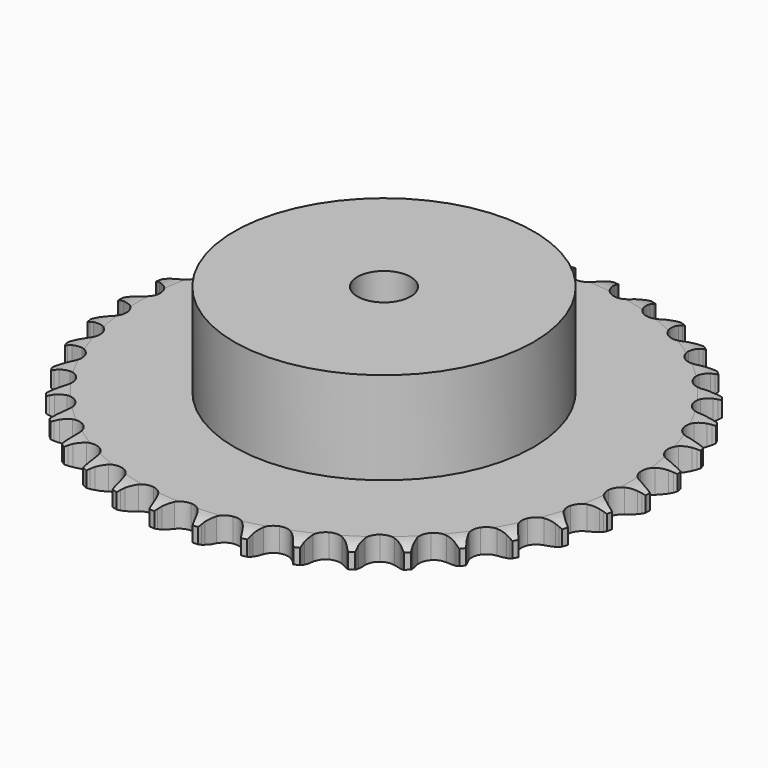
from build123d import *

# Parameters (mm, degrees)
PAD_DEPTH         = 7.2
SKETCH001_R       = 45
PAD001_DEPTH      = 35
SKETCH002_R       = 8
POCKET_DEPTH      = 0.001
POCKET_DEPTH_BACK = 35.001


with BuildPart() as part:
    # Sprocket → Pad (new body)
    with BuildSketch(Plane.XY):
        with BuildLine():
            ThreePointArc((-6.664627, 80.430092), (-5.93192, 79.411092), (-5.39606, 78.276157))
            Line((-5.39606, 78.276157), (-4.981042, 77.139156))
            ThreePointArc((-4.981042, 77.139156), (-4.324473, 75.677146), (-3.464601, 74.324677))
            ThreePointArc((-3.464601, 74.324677), (-1.939239, 73.041758), (0, 72.581366))
            ThreePointArc((0, 72.581366), (1.939239, 73.041758), (3.464601, 74.324677))
            ThreePointArc((3.464601, 74.324677), (4.324473, 75.677146), (4.981042, 77.139156))
            Line((4.981042, 77.139156), (5.39606, 78.276157))
            ThreePointArc((5.39606, 78.276157), (5.93192, 79.411092), (6.664627, 80.430092))
            ThreePointArc((6.664627, 80.430092), (7.21962, 79.30439), (7.561367, 78.096734))
            Line((7.561367, 78.096734), (7.78358, 76.906931))
            ThreePointArc((7.78358, 76.906931), (8.190556, 75.356794), (8.816092, 73.881239))
            ThreePointArc((8.816092, 73.881239), (10.109488, 72.364752), (11.9465, 71.591451))
            ThreePointArc((11.9465, 71.591451), (13.935068, 71.726376), (15.650788, 72.74073))
            Line((15.650788, 72.74073), (17.609795, 75.267226))
            ThreePointArc((17.609795, 75.267226), (17.893709, 75.801938), (18.206297, 76.32041))
            ThreePointArc((18.206297, 76.32041), (18.921652, 77.351666), (19.812089, 78.236169))
            ThreePointArc((19.812089, 78.236169), (20.174227, 77.034471), (20.31254, 75.787037))
            Line((20.31254, 75.787037), (20.335887, 74.576886))
            ThreePointArc((20.335887, 74.576886), (20.482168, 72.980904), (20.856304, 71.422515))
            ThreePointArc((20.856304, 71.422515), (21.882455, 69.713824), (23.567131, 68.648708))
            ThreePointArc((23.567131, 68.648708), (25.550786, 68.454485), (27.410062, 69.172607))
            Line((27.410062, 69.172607), (29.758199, 71.342202))
            ThreePointArc((29.758199, 71.342202), (30.126251, 71.822891), (30.519913, 72.282841))
            ThreePointArc((30.519913, 72.282841), (31.395252, 73.182288), (32.419128, 73.908167))
            ThreePointArc((32.419128, 73.908167), (32.578534, 72.663252), (32.50964, 71.410066))
            Line((32.50964, 71.410066), (32.333484, 70.212577))
            ThreePointArc((32.333484, 70.212577), (32.21508, 68.614286), (32.327611, 67.01557))
            ThreePointArc((32.327611, 67.01557), (33.058525, 65.161285), (34.544912, 63.833407))
            ThreePointArc((34.544912, 63.833407), (36.469544, 63.315334), (38.421661, 63.717635))
            Line((38.421661, 63.717635), (41.094876, 65.471149))
            ThreePointArc((41.094876, 65.471149), (41.537028, 65.884702), (42.001026, 66.273585))
            ThreePointArc((42.001026, 66.273585), (43.01247, 67.016689), (44.141858, 67.564143))
            ThreePointArc((44.141858, 67.564143), (44.094184, 66.30997), (43.819961, 65.085215))
            Line((43.819961, 65.085215), (43.449108, 63.933053))
            ThreePointArc((43.449108, 63.933053), (43.069248, 62.376048), (42.917105, 60.780615))
            ThreePointArc((42.917105, 60.780615), (43.332845, 58.831316), (44.580398, 57.276897))
            ThreePointArc((44.580398, 57.276897), (46.393508, 56.449105), (48.385218, 56.524611))
            Line((48.385218, 56.524611), (51.310593, 57.814214))
            ThreePointArc((51.310593, 57.814214), (51.814782, 58.149351), (52.33646, 58.456558))
            ThreePointArc((52.33646, 58.456558), (53.45642, 59.023049), (54.660513, 59.377145))
            ThreePointArc((54.660513, 59.377145), (54.407059, 58.147924), (53.934988, 56.985009))
            Line((53.934988, 56.985009), (53.379554, 55.909601))
            ThreePointArc((53.379554, 55.909601), (52.7486, 54.436355), (52.335932, 52.887723))
            ThreePointArc((52.335932, 52.887723), (52.425158, 50.896581), (53.399847, 49.158022))
            ThreePointArc((53.399847, 49.158022), (55.051979, 48.043093), (57.028952, 47.789744))
            Line((57.028952, 47.789744), (60.12669, 48.580257))
            ThreePointArc((60.12669, 48.580257), (60.679165, 48.827837), (61.244292, 49.044988))
            ThreePointArc((61.244292, 49.044988), (62.442219, 49.419413), (63.688171, 49.570493))
            ThreePointArc((63.688171, 49.570493), (63.235851, 48.399755), (62.57881, 47.3304))
            Line((62.57881, 47.3304), (61.853944, 46.361081))
            ThreePointArc((61.853944, 46.361081), (60.989107, 45.01178), (60.327171, 43.552192))
            ThreePointArc((60.327171, 43.552192), (60.087449, 41.573521), (60.762687, 39.698245))
            ThreePointArc((60.762687, 39.698245), (62.208775, 38.32659), (64.117085, 37.751298))
            Line((64.117085, 37.751298), (67.302688, 38.021158))
            ThreePointArc((67.302688, 38.021158), (67.888378, 38.174426), (68.48154, 38.295599))
            ThreePointArc((68.48154, 38.295599), (69.724757, 38.467746), (70.978583, 38.411688))
            ThreePointArc((70.978583, 38.411688), (70.339734, 37.331366), (69.515644, 36.384742))
            Line((69.515644, 36.384742), (68.64112, 35.547952))
            ThreePointArc((68.64112, 35.547952), (67.565991, 34.359401), (66.672842, 33.028671))
            ThreePointArc((66.672842, 33.028671), (66.110711, 31.116443), (66.468079, 29.155603))
            ThreePointArc((66.468079, 29.155603), (67.668677, 27.564637), (69.456271, 26.683094))
            Line((69.456271, 26.683094), (72.642844, 26.42494))
            ThreePointArc((72.642844, 26.42494), (73.245773, 26.479717), (73.850789, 26.501606))
            ThreePointArc((73.850789, 26.501606), (75.105385, 26.466778), (76.332883, 26.205112))
            ThreePointArc((76.332883, 26.205112), (75.524933, 25.244675), (74.556273, 24.446602))
            Line((74.556273, 24.446602), (73.555945, 23.765167))
            ThreePointArc((73.555945, 23.765167), (72.29985, 22.769787), (71.199852, 21.604214))
            ThreePointArc((71.199852, 21.604214), (70.330645, 19.81059), (70.360396, 17.817672))
            ThreePointArc((70.360396, 17.817672), (71.282755, 16.050793), (72.90087, 14.887045))
            Line((72.90087, 14.887045), (76.001492, 14.10792))
            ThreePointArc((76.001492, 14.10792), (76.605214, 14.06271), (77.205582, 13.984719))
            ThreePointArc((77.205582, 13.984719), (78.437334, 13.743866), (79.605022, 13.283729))
            ThreePointArc((79.605022, 13.283729), (78.650008, 12.469375), (77.563201, 11.841624))
            Line((77.563201, 11.841624), (76.464356, 11.334131))
            ThreePointArc((76.464356, 11.334131), (75.061558, 10.559072), (73.784716, 9.59045))
            ThreePointArc((73.784716, 9.59045), (72.632143, 7.964356), (72.333464, 5.993722))
            ThreePointArc((72.333464, 5.993722), (72.952425, 4.099125), (74.356925, 2.684916))
            Line((74.356925, 2.684916), (77.287018, 1.406071))
            ThreePointArc((77.287018, 1.406071), (77.875065, 1.262109), (78.454407, 1.086364))
            ThreePointArc((78.454407, 1.086364), (79.629716, 0.646056), (80.705743, 0))
            ThreePointArc((80.705743, 0), (79.629716, -0.646056), (78.454407, -1.086364))
            Line((78.454407, -1.086364), (77.287018, -1.406071))
            ThreePointArc((77.287018, -1.406071), (75.775783, -1.939666), (74.356925, -2.684916))
            ThreePointArc((74.356925, -2.684916), (72.952425, -4.099125), (72.333464, -5.993722))
            ThreePointArc((72.333464, -5.993722), (72.632143, -7.964356), (73.784716, -9.59045))
            Line((73.784716, -9.59045), (76.464356, -11.334131))
            ThreePointArc((76.464356, -11.334131), (77.020687, -11.572918), (77.563201, -11.841624))
            ThreePointArc((77.563201, -11.841624), (78.650008, -12.469375), (79.605022, -13.283729))
            ThreePointArc((79.605022, -13.283729), (78.437334, -13.743866), (77.205582, -13.984719))
            Line((77.205582, -13.984719), (76.001492, -14.10792))
            ThreePointArc((76.001492, -14.10792), (74.423041, -14.385496), (72.90087, -14.887045))
            ThreePointArc((72.90087, -14.887045), (71.282755, -16.050793), (70.360396, -17.817672))
            ThreePointArc((70.360396, -17.817672), (70.330645, -19.81059), (71.199852, -21.604214))
            Line((71.199852, -21.604214), (73.555945, -23.765167))
            ThreePointArc((73.555945, -23.765167), (74.065385, -24.092267), (74.556273, -24.446602))
            ThreePointArc((74.556273, -24.446602), (75.524933, -25.244675), (76.332883, -26.205112))
            ThreePointArc((76.332883, -26.205112), (75.105385, -26.466778), (73.850789, -26.501606))
            Line((73.850789, -26.501606), (72.642844, -26.42494))
            ThreePointArc((72.642844, -26.42494), (71.040233, -26.438926), (69.456271, -26.683094))
            ThreePointArc((69.456271, -26.683094), (67.668677, -27.564637), (66.468079, -29.155603))
            ThreePointArc((66.468079, -29.155603), (66.110711, -31.116443), (66.672842, -33.028671))
            Line((66.672842, -33.028671), (68.64112, -35.547952))
            ThreePointArc((68.64112, -35.547952), (69.089773, -35.954442), (69.515644, -36.384742))
            ThreePointArc((69.515644, -36.384742), (70.339734, -37.331366), (70.978583, -38.411688))
            ThreePointArc((70.978583, -38.411688), (69.724757, -38.467746), (68.48154, -38.295599))
            Line((68.48154, -38.295599), (67.302688, -38.021158))
            ThreePointArc((67.302688, -38.021158), (65.719633, -37.771172), (64.117085, -37.751298))
            ThreePointArc((64.117085, -37.751298), (62.208775, -38.32659), (60.762687, -39.698245))
            ThreePointArc((60.762687, -39.698245), (60.087449, -41.573521), (60.327171, -43.552192))
            Line((60.327171, -43.552192), (61.853944, -46.361081))
            ThreePointArc((61.853944, -46.361081), (62.229572, -46.835873), (62.57881, -47.3304))
            ThreePointArc((62.57881, -47.3304), (63.235851, -48.399755), (63.688171, -49.570493))
            ThreePointArc((63.688171, -49.570493), (62.442219, -49.419413), (61.244292, -49.044988))
            Line((61.244292, -49.044988), (60.12669, -48.580257))
            ThreePointArc((60.12669, -48.580257), (58.606372, -48.073118), (57.028952, -47.789744))
            ThreePointArc((57.028952, -47.789744), (55.051979, -48.043093), (53.399847, -49.158022))
            ThreePointArc((53.399847, -49.158022), (52.425158, -50.896581), (52.335932, -52.887723))
            Line((52.335932, -52.887723), (53.379554, -55.909601))
            ThreePointArc((53.379554, -55.909601), (53.67191, -56.439744), (53.934988, -56.985009))
            ThreePointArc((53.934988, -56.985009), (54.407059, -58.147924), (54.660513, -59.377145))
            ThreePointArc((54.660513, -59.377145), (53.45642, -59.023049), (52.33646, -58.456558))
            Line((52.33646, -58.456558), (51.310593, -57.814214))
            ThreePointArc((51.310593, -57.814214), (49.894483, -57.063755), (48.385218, -56.524611))
            ThreePointArc((48.385218, -56.524611), (46.393508, -56.449105), (44.580398, -57.276897))
            ThreePointArc((44.580398, -57.276897), (43.332845, -58.831316), (42.917105, -60.780615))
            Line((42.917105, -60.780615), (43.449108, -63.933053))
            ThreePointArc((43.449108, -63.933053), (43.650219, -64.504085), (43.819961, -65.085215))
            ThreePointArc((43.819961, -65.085215), (44.094184, -66.30997), (44.141858, -67.564143))
            ThreePointArc((44.141858, -67.564143), (43.01247, -67.016689), (42.001026, -66.273585))
            Line((42.001026, -66.273585), (41.094876, -65.471149))
            ThreePointArc((41.094876, -65.471149), (39.821601, -64.497842), (38.421661, -63.717635))
            ThreePointArc((38.421661, -63.717635), (36.469544, -63.315334), (34.544912, -63.833407))
            ThreePointArc((34.544912, -63.833407), (33.058525, -65.161285), (32.327611, -67.01557))
            Line((32.327611, -67.01557), (32.333484, -70.212577))
            ThreePointArc((32.333484, -70.212577), (32.437863, -70.808924), (32.50964, -71.410066))
            ThreePointArc((32.50964, -71.410066), (32.578534, -72.663252), (32.419128, -73.908167))
            ThreePointArc((32.419128, -73.908167), (31.395252, -73.182288), (30.519913, -72.282841))
            Line((30.519913, -72.282841), (29.758199, -71.342202))
            ThreePointArc((29.758199, -71.342202), (28.662491, -70.172596), (27.410062, -69.172607))
            ThreePointArc((27.410062, -69.172607), (25.550786, -68.454485), (23.567131, -68.648708))
            ThreePointArc((23.567131, -68.648708), (21.882455, -69.713824), (20.856304, -71.422515))
            Line((20.856304, -71.422515), (20.335887, -74.576886))
            ThreePointArc((20.335887, -74.576886), (20.340687, -75.182279), (20.31254, -75.787037))
            ThreePointArc((20.31254, -75.787037), (20.174227, -77.034471), (19.812089, -78.236169))
            ThreePointArc((19.812089, -78.236169), (18.921652, -77.351666), (18.206297, -76.32041))
            Line((18.206297, -76.32041), (17.609795, -75.267226))
            ThreePointArc((17.609795, -75.267226), (16.721542, -73.933224), (15.650788, -72.74073))
            ThreePointArc((15.650788, -72.74073), (13.935068, -71.726376), (11.9465, -71.591451))
            ThreePointArc((11.9465, -71.591451), (10.109488, -72.364752), (8.816092, -73.881239))
            Line((8.816092, -73.881239), (7.78358, -76.906931))
            ThreePointArc((7.78358, -76.906931), (7.688671, -77.504858), (7.561367, -78.096734))
            ThreePointArc((7.561367, -78.096734), (7.21962, -79.30439), (6.664627, -80.430092))
            ThreePointArc((6.664627, -80.430092), (5.93192, -79.411092), (5.39606, -78.276157))
            Line((5.39606, -78.276157), (4.981042, -77.139156))
            ThreePointArc((4.981042, -77.139156), (4.324473, -75.677146), (3.464601, -74.324677))
            ThreePointArc((3.464601, -74.324677), (1.939239, -73.041758), (0, -72.581366))
            ThreePointArc((0, -72.581366), (-1.939239, -73.041758), (-3.464601, -74.324677))
            Line((-3.464601, -74.324677), (-4.981042, -77.139156))
            ThreePointArc((-4.981042, -77.139156), (-5.173073, -77.713306), (-5.39606, -78.276157))
            ThreePointArc((-5.39606, -78.276157), (-5.93192, -79.411092), (-6.664627, -80.430092))
            ThreePointArc((-6.664627, -80.430092), (-7.21962, -79.30439), (-7.561367, -78.096734))
            Line((-7.561367, -78.096734), (-7.78358, -76.906931))
            ThreePointArc((-7.78358, -76.906931), (-8.190556, -75.356794), (-8.816092, -73.881239))
            ThreePointArc((-8.816092, -73.881239), (-10.109488, -72.364752), (-11.9465, -71.591451))
            ThreePointArc((-11.9465, -71.591451), (-13.935068, -71.726376), (-15.650788, -72.74073))
            Line((-15.650788, -72.74073), (-17.609795, -75.267226))
            ThreePointArc((-17.609795, -75.267226), (-17.893709, -75.801938), (-18.206297, -76.32041))
            ThreePointArc((-18.206297, -76.32041), (-18.921652, -77.351666), (-19.812089, -78.236169))
            ThreePointArc((-19.812089, -78.236169), (-20.174227, -77.034471), (-20.31254, -75.787037))
            Line((-20.31254, -75.787037), (-20.335887, -74.576886))
            ThreePointArc((-20.335887, -74.576886), (-20.482168, -72.980904), (-20.856304, -71.422515))
            ThreePointArc((-20.856304, -71.422515), (-21.882455, -69.713824), (-23.567131, -68.648708))
            ThreePointArc((-23.567131, -68.648708), (-25.550786, -68.454485), (-27.410062, -69.172607))
            Line((-27.410062, -69.172607), (-29.758199, -71.342202))
            ThreePointArc((-29.758199, -71.342202), (-30.126251, -71.822891), (-30.519913, -72.282841))
            ThreePointArc((-30.519913, -72.282841), (-31.395252, -73.182288), (-32.419128, -73.908167))
            ThreePointArc((-32.419128, -73.908167), (-32.578534, -72.663252), (-32.50964, -71.410066))
            Line((-32.50964, -71.410066), (-32.333484, -70.212577))
            ThreePointArc((-32.333484, -70.212577), (-32.21508, -68.614286), (-32.327611, -67.01557))
            ThreePointArc((-32.327611, -67.01557), (-33.058525, -65.161285), (-34.544912, -63.833407))
            ThreePointArc((-34.544912, -63.833407), (-36.469544, -63.315334), (-38.421661, -63.717635))
            Line((-38.421661, -63.717635), (-41.094876, -65.471149))
            ThreePointArc((-41.094876, -65.471149), (-41.537028, -65.884702), (-42.001026, -66.273585))
            ThreePointArc((-42.001026, -66.273585), (-43.01247, -67.016689), (-44.141858, -67.564143))
            ThreePointArc((-44.141858, -67.564143), (-44.094184, -66.30997), (-43.819961, -65.085215))
            Line((-43.819961, -65.085215), (-43.449108, -63.933053))
            ThreePointArc((-43.449108, -63.933053), (-43.069248, -62.376048), (-42.917105, -60.780615))
            ThreePointArc((-42.917105, -60.780615), (-43.332845, -58.831316), (-44.580398, -57.276897))
            ThreePointArc((-44.580398, -57.276897), (-46.393508, -56.449105), (-48.385218, -56.524611))
            Line((-48.385218, -56.524611), (-51.310593, -57.814214))
            ThreePointArc((-51.310593, -57.814214), (-51.814782, -58.149351), (-52.33646, -58.456558))
            ThreePointArc((-52.33646, -58.456558), (-53.45642, -59.023049), (-54.660513, -59.377145))
            ThreePointArc((-54.660513, -59.377145), (-54.407059, -58.147924), (-53.934988, -56.985009))
            Line((-53.934988, -56.985009), (-53.379554, -55.909601))
            ThreePointArc((-53.379554, -55.909601), (-52.7486, -54.436355), (-52.335932, -52.887723))
            ThreePointArc((-52.335932, -52.887723), (-52.425158, -50.896581), (-53.399847, -49.158022))
            ThreePointArc((-53.399847, -49.158022), (-55.051979, -48.043093), (-57.028952, -47.789744))
            Line((-57.028952, -47.789744), (-60.12669, -48.580257))
            ThreePointArc((-60.12669, -48.580257), (-60.679165, -48.827837), (-61.244292, -49.044988))
            ThreePointArc((-61.244292, -49.044988), (-62.442219, -49.419413), (-63.688171, -49.570493))
            ThreePointArc((-63.688171, -49.570493), (-63.235851, -48.399755), (-62.57881, -47.3304))
            Line((-62.57881, -47.3304), (-61.853944, -46.361081))
            ThreePointArc((-61.853944, -46.361081), (-60.989107, -45.01178), (-60.327171, -43.552192))
            ThreePointArc((-60.327171, -43.552192), (-60.087449, -41.573521), (-60.762687, -39.698245))
            ThreePointArc((-60.762687, -39.698245), (-62.208775, -38.32659), (-64.117085, -37.751298))
            Line((-64.117085, -37.751298), (-67.302688, -38.021158))
            ThreePointArc((-67.302688, -38.021158), (-67.888378, -38.174426), (-68.48154, -38.295599))
            ThreePointArc((-68.48154, -38.295599), (-69.724757, -38.467746), (-70.978583, -38.411688))
            ThreePointArc((-70.978583, -38.411688), (-70.339734, -37.331366), (-69.515644, -36.384742))
            Line((-69.515644, -36.384742), (-68.64112, -35.547952))
            ThreePointArc((-68.64112, -35.547952), (-67.565991, -34.359401), (-66.672842, -33.028671))
            ThreePointArc((-66.672842, -33.028671), (-66.110711, -31.116443), (-66.468079, -29.155603))
            ThreePointArc((-66.468079, -29.155603), (-67.668677, -27.564637), (-69.456271, -26.683094))
            Line((-69.456271, -26.683094), (-72.642844, -26.42494))
            ThreePointArc((-72.642844, -26.42494), (-73.245773, -26.479717), (-73.850789, -26.501606))
            ThreePointArc((-73.850789, -26.501606), (-75.105385, -26.466778), (-76.332883, -26.205112))
            ThreePointArc((-76.332883, -26.205112), (-75.524933, -25.244675), (-74.556273, -24.446602))
            Line((-74.556273, -24.446602), (-73.555945, -23.765167))
            ThreePointArc((-73.555945, -23.765167), (-72.29985, -22.769787), (-71.199852, -21.604214))
            ThreePointArc((-71.199852, -21.604214), (-70.330645, -19.81059), (-70.360396, -17.817672))
            ThreePointArc((-70.360396, -17.817672), (-71.282755, -16.050793), (-72.90087, -14.887045))
            Line((-72.90087, -14.887045), (-76.001492, -14.10792))
            ThreePointArc((-76.001492, -14.10792), (-76.605214, -14.06271), (-77.205582, -13.984719))
            ThreePointArc((-77.205582, -13.984719), (-78.437334, -13.743866), (-79.605022, -13.283729))
            ThreePointArc((-79.605022, -13.283729), (-78.650008, -12.469375), (-77.563201, -11.841624))
            Line((-77.563201, -11.841624), (-76.464356, -11.334131))
            ThreePointArc((-76.464356, -11.334131), (-75.061558, -10.559072), (-73.784716, -9.59045))
            ThreePointArc((-73.784716, -9.59045), (-72.632143, -7.964356), (-72.333464, -5.993722))
            ThreePointArc((-72.333464, -5.993722), (-72.952425, -4.099125), (-74.356925, -2.684916))
            Line((-74.356925, -2.684916), (-77.287018, -1.406071))
            ThreePointArc((-77.287018, -1.406071), (-77.875065, -1.262109), (-78.454407, -1.086364))
            ThreePointArc((-78.454407, -1.086364), (-79.629716, -0.646056), (-80.705743, 0))
            ThreePointArc((-80.705743, 0), (-79.629716, 0.646056), (-78.454407, 1.086364))
            Line((-78.454407, 1.086364), (-77.287018, 1.406071))
            ThreePointArc((-77.287018, 1.406071), (-75.775783, 1.939666), (-74.356925, 2.684916))
            ThreePointArc((-74.356925, 2.684916), (-72.952425, 4.099125), (-72.333464, 5.993722))
            ThreePointArc((-72.333464, 5.993722), (-72.632143, 7.964356), (-73.784716, 9.59045))
            Line((-73.784716, 9.59045), (-76.464356, 11.334131))
            ThreePointArc((-76.464356, 11.334131), (-77.020687, 11.572918), (-77.563201, 11.841624))
            ThreePointArc((-77.563201, 11.841624), (-78.650008, 12.469375), (-79.605022, 13.283729))
            ThreePointArc((-79.605022, 13.283729), (-78.437334, 13.743866), (-77.205582, 13.984719))
            Line((-77.205582, 13.984719), (-76.001492, 14.10792))
            ThreePointArc((-76.001492, 14.10792), (-74.423041, 14.385496), (-72.90087, 14.887045))
            ThreePointArc((-72.90087, 14.887045), (-71.282755, 16.050793), (-70.360396, 17.817672))
            ThreePointArc((-70.360396, 17.817672), (-70.330645, 19.81059), (-71.199852, 21.604214))
            Line((-71.199852, 21.604214), (-73.555945, 23.765167))
            ThreePointArc((-73.555945, 23.765167), (-74.065385, 24.092267), (-74.556273, 24.446602))
            ThreePointArc((-74.556273, 24.446602), (-75.524933, 25.244675), (-76.332883, 26.205112))
            ThreePointArc((-76.332883, 26.205112), (-75.105385, 26.466778), (-73.850789, 26.501606))
            Line((-73.850789, 26.501606), (-72.642844, 26.42494))
            ThreePointArc((-72.642844, 26.42494), (-71.040233, 26.438926), (-69.456271, 26.683094))
            ThreePointArc((-69.456271, 26.683094), (-67.668677, 27.564637), (-66.468079, 29.155603))
            ThreePointArc((-66.468079, 29.155603), (-66.110711, 31.116443), (-66.672842, 33.028671))
            Line((-66.672842, 33.028671), (-68.64112, 35.547952))
            ThreePointArc((-68.64112, 35.547952), (-69.089773, 35.954442), (-69.515644, 36.384742))
            ThreePointArc((-69.515644, 36.384742), (-70.339734, 37.331366), (-70.978583, 38.411688))
            ThreePointArc((-70.978583, 38.411688), (-69.724757, 38.467746), (-68.48154, 38.295599))
            Line((-68.48154, 38.295599), (-67.302688, 38.021158))
            ThreePointArc((-67.302688, 38.021158), (-65.719633, 37.771172), (-64.117085, 37.751298))
            ThreePointArc((-64.117085, 37.751298), (-62.208775, 38.32659), (-60.762687, 39.698245))
            ThreePointArc((-60.762687, 39.698245), (-60.087449, 41.573521), (-60.327171, 43.552192))
            Line((-60.327171, 43.552192), (-61.853944, 46.361081))
            ThreePointArc((-61.853944, 46.361081), (-62.229572, 46.835873), (-62.57881, 47.3304))
            ThreePointArc((-62.57881, 47.3304), (-63.235851, 48.399755), (-63.688171, 49.570493))
            ThreePointArc((-63.688171, 49.570493), (-62.442219, 49.419413), (-61.244292, 49.044988))
            Line((-61.244292, 49.044988), (-60.12669, 48.580257))
            ThreePointArc((-60.12669, 48.580257), (-58.606372, 48.073118), (-57.028952, 47.789744))
            ThreePointArc((-57.028952, 47.789744), (-55.051979, 48.043093), (-53.399847, 49.158022))
            ThreePointArc((-53.399847, 49.158022), (-52.425158, 50.896581), (-52.335932, 52.887723))
            Line((-52.335932, 52.887723), (-53.379554, 55.909601))
            ThreePointArc((-53.379554, 55.909601), (-53.67191, 56.439744), (-53.934988, 56.985009))
            ThreePointArc((-53.934988, 56.985009), (-54.407059, 58.147924), (-54.660513, 59.377145))
            ThreePointArc((-54.660513, 59.377145), (-53.45642, 59.023049), (-52.33646, 58.456558))
            Line((-52.33646, 58.456558), (-51.310593, 57.814214))
            ThreePointArc((-51.310593, 57.814214), (-49.894483, 57.063755), (-48.385218, 56.524611))
            ThreePointArc((-48.385218, 56.524611), (-46.393508, 56.449105), (-44.580398, 57.276897))
            ThreePointArc((-44.580398, 57.276897), (-43.332845, 58.831316), (-42.917105, 60.780615))
            Line((-42.917105, 60.780615), (-43.449108, 63.933053))
            ThreePointArc((-43.449108, 63.933053), (-43.650219, 64.504085), (-43.819961, 65.085215))
            ThreePointArc((-43.819961, 65.085215), (-44.094184, 66.30997), (-44.141858, 67.564143))
            ThreePointArc((-44.141858, 67.564143), (-43.01247, 67.016689), (-42.001026, 66.273585))
            Line((-42.001026, 66.273585), (-41.094876, 65.471149))
            ThreePointArc((-41.094876, 65.471149), (-39.821601, 64.497842), (-38.421661, 63.717635))
            ThreePointArc((-38.421661, 63.717635), (-36.469544, 63.315334), (-34.544912, 63.833407))
            ThreePointArc((-34.544912, 63.833407), (-33.058525, 65.161285), (-32.327611, 67.01557))
            Line((-32.327611, 67.01557), (-32.333484, 70.212577))
            ThreePointArc((-32.333484, 70.212577), (-32.437863, 70.808924), (-32.50964, 71.410066))
            ThreePointArc((-32.50964, 71.410066), (-32.578534, 72.663252), (-32.419128, 73.908167))
            ThreePointArc((-32.419128, 73.908167), (-31.395252, 73.182288), (-30.519913, 72.282841))
            Line((-30.519913, 72.282841), (-29.758199, 71.342202))
            ThreePointArc((-29.758199, 71.342202), (-28.662491, 70.172596), (-27.410062, 69.172607))
            ThreePointArc((-27.410062, 69.172607), (-25.550786, 68.454485), (-23.567131, 68.648708))
            ThreePointArc((-23.567131, 68.648708), (-21.882455, 69.713824), (-20.856304, 71.422515))
            Line((-20.856304, 71.422515), (-20.335887, 74.576886))
            ThreePointArc((-20.335887, 74.576886), (-20.340687, 75.182279), (-20.31254, 75.787037))
            ThreePointArc((-20.31254, 75.787037), (-20.174227, 77.034471), (-19.812089, 78.236169))
            ThreePointArc((-19.812089, 78.236169), (-18.921652, 77.351666), (-18.206297, 76.32041))
            Line((-18.206297, 76.32041), (-17.609795, 75.267226))
            ThreePointArc((-17.609795, 75.267226), (-16.721542, 73.933224), (-15.650788, 72.74073))
            ThreePointArc((-15.650788, 72.74073), (-13.935068, 71.726376), (-11.9465, 71.591451))
            ThreePointArc((-11.9465, 71.591451), (-10.109488, 72.364752), (-8.816092, 73.881239))
            Line((-8.816092, 73.881239), (-7.78358, 76.906931))
            ThreePointArc((-7.78358, 76.906931), (-7.688671, 77.504858), (-7.561367, 78.096734))
            ThreePointArc((-7.561367, 78.096734), (-7.21962, 79.30439), (-6.664627, 80.430092))
        make_face()
    extrude(amount=PAD_DEPTH)

    # Sketch → Groove (revolve, cut)
    with BuildSketch(Plane.XZ):
        with BuildLine():
            Line((73.633431, 0), (79.3, 0))
            Line((84.966569, 0), (79.3, 0))
            Line((84.966569, 7.2), (84.966569, 0))
            Line((79.3, 7.2), (84.966569, 7.2))
            Line((73.633431, 7.2), (79.3, 7.2))
            ThreePointArc((79.3, 5.9), (76.54032, 6.870833), (73.633431, 7.2))
            Line((79.3, 1.3), (79.3, 5.9))
            ThreePointArc((73.633431, 0), (76.54032, 0.329167), (79.3, 1.3))
        make_face()
    revolve(axis=Axis((0, 0, 0), (0, 0, 1)), mode=Mode.SUBTRACT)

    # Sketch001 → Pad001 (join)
    with BuildSketch(Plane.XY):
        Circle(SKETCH001_R)
    extrude(amount=PAD001_DEPTH)

    # Sketch002 → Pocket (cut, two sides)
    with BuildSketch(Plane.XY) as pocket_sk:
        Circle(SKETCH002_R)
    extrude(amount=-POCKET_DEPTH, mode=Mode.SUBTRACT)
    extrude(pocket_sk.sketch, amount=POCKET_DEPTH_BACK, mode=Mode.SUBTRACT)


solid = part.part
